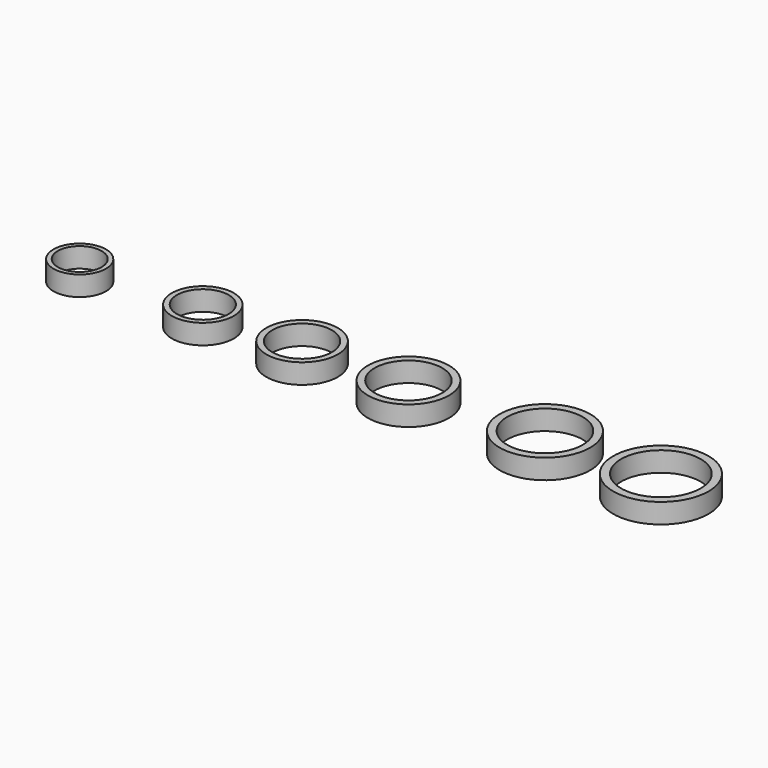
from build123d import *

# Parameters (mm, degrees)
F0_R     = 8.382
F0_R_2   = 6.985
F0_R_3   = 9.906
F0_R_4   = 8.255
F0_R_5   = 11.43
F0_R_6   = 9.525
F0_R_7   = 12.954
F0_R_8   = 10.795
F0_R_9   = 14.478
F0_R_10  = 12.065
F0_R_11  = 15.24
F0_R_12  = 12.7
F1_DEPTH = 6.35


with BuildPart() as f1:
    # F0 (on Top) → F1 (new body)
    with BuildSketch(Plane.XY):
        with Locations((-138.064337, 0)):
            Circle(F0_R)
        with Locations((-138.064337, 0)):
            Circle(F0_R_2, mode=Mode.SUBTRACT)
        with Locations((-98.754741, 0)):
            Circle(F0_R_3)
        with Locations((-98.754741, 0)):
            Circle(F0_R_4, mode=Mode.SUBTRACT)
        with Locations((-67.062244, 0)):
            Circle(F0_R_5)
        with Locations((-67.062244, 0)):
            Circle(F0_R_6, mode=Mode.SUBTRACT)
        with Locations((-33.084221, 0)):
            Circle(F0_R_7)
        with Locations((-33.084221, 0)):
            Circle(F0_R_8, mode=Mode.SUBTRACT)
        with Locations((10.49297, 0)):
            Circle(F0_R_9)
        with Locations((10.49297, 0)):
            Circle(F0_R_10, mode=Mode.SUBTRACT)
        with Locations((47.518346, 0)):
            Circle(F0_R_11)
        with Locations((47.518346, 0)):
            Circle(F0_R_12, mode=Mode.SUBTRACT)
    extrude(amount=-F1_DEPTH)


solid = f1.part
